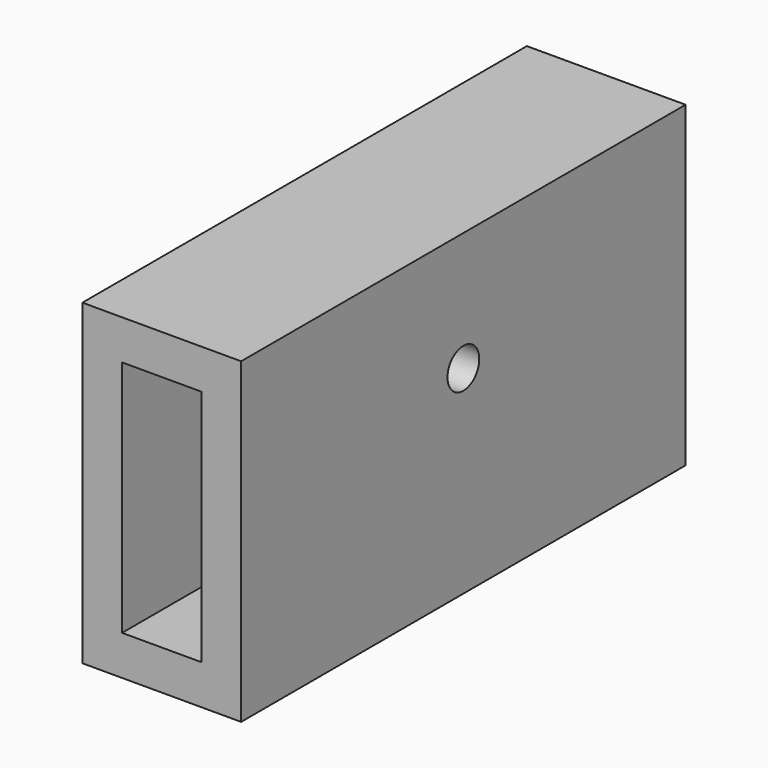
from build123d import *

# Parameters (mm, degrees)
F0_W     = 20
F0_H     = 40
F1_DEPTH = 70
F2_R     = 2.5
F3_DEPTH = 20.001
F4_W     = 10
F4_H     = 30
F5_DEPTH = 70.001


with BuildPart() as f1:
    # F0 (on Front) → F1 (new body)
    with BuildSketch(Plane.XZ):
        with Locations((10, 20)):
            Rectangle(F0_W, F0_H)
    extrude(amount=F1_DEPTH)

    # F2 (on face) → F3 (cut, through all)
    with BuildSketch(Plane.YZ.offset(20)):
        with Locations((-35, 25)):
            Circle(F2_R)
    extrude(amount=-F3_DEPTH, mode=Mode.SUBTRACT)

    # F4 (on face) → F5 (cut, through all)
    with BuildSketch(Plane.XZ.offset(70)):
        with Locations((10, 20)):
            Rectangle(F4_W, F4_H)
    extrude(amount=-F5_DEPTH, mode=Mode.SUBTRACT)


solid = f1.part
